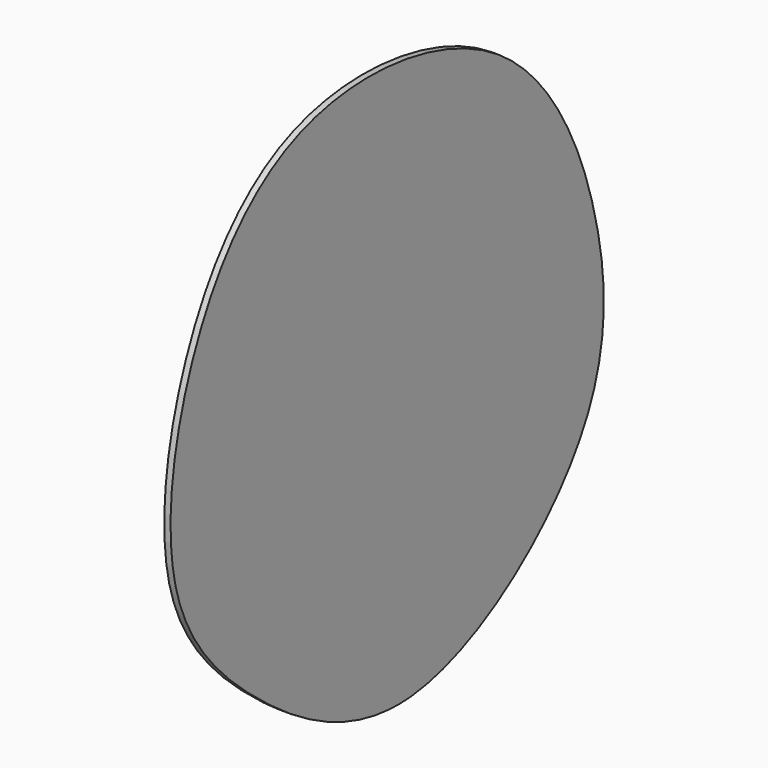
from build123d import *

# Parameters (mm, degrees)
F1_DEPTH = 25.4


with BuildPart() as f1:
    # F0 (on Right) → F1 (new body)
    with BuildSketch(Plane.YZ):
        with BuildLine():
            add(Edge.make_bspline(
                [(261.1331343651, -1501.0477304459), (586.9754999207, -1471.2956690689), (1251.9438957949, -986.8605127106), (1263.2544180591, -181.8254083072), (822.8643510743, 750.3203495522), (-375.1269376119, 889.1344764274), (-907.7774876718, 186.2989388078), (-1027.8017623429, -686.7728221447), (-543.3420216206, -1218.8711432528), (-34.013212557, -1527.9969953576), (261.1331343651, -1501.0477304459)],
                knots=[0, 0, 0, 0, 0.1370339589, 0.254212167, 0.3854864072, 0.5219738279, 0.6428882282, 0.7644463073, 0.8758753414, 1, 1, 1, 1], degree=3))
        make_face()
        with BuildLine():
            add(Edge.make_bspline(
                [(261.1331343651, -1501.0477304459), (586.9754999207, -1471.2956690689), (1251.9438957949, -986.8605127106), (1263.2544180591, -181.8254083072), (822.8643510743, 750.3203495522), (-375.1269376119, 889.1344764274), (-907.7774876718, 186.2989388078), (-1027.8017623429, -686.7728221447), (-543.3420216206, -1218.8711432528), (-34.013212557, -1527.9969953576), (261.1331343651, -1501.0477304459)],
                knots=[0, 0, 0, 0, 0.1370339589, 0.254212167, 0.3854864072, 0.5219738279, 0.6428882282, 0.7644463073, 0.8758753414, 1, 1, 1, 1], degree=3))
        make_face()
    extrude(amount=F1_DEPTH)


solid = f1.part
